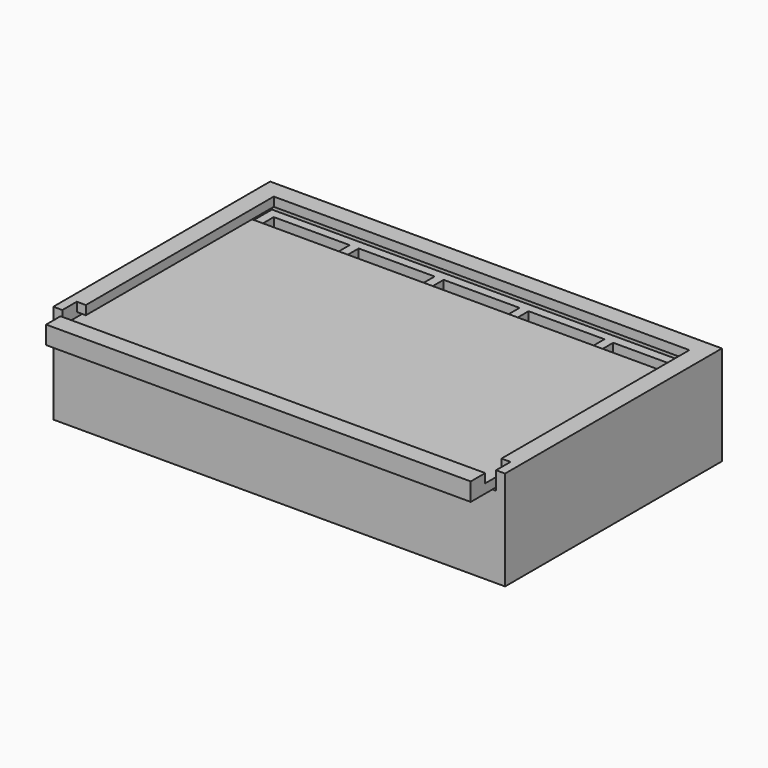
from build123d import *

# Parameters (mm, degrees)
F0_W      = 50
F0_H      = 30
F0_W_2    = 8.4
F0_H_2    = 8
F1_DEPTH  = 8
F3_DEPTH  = 1
F5_DEPTH  = 1
F6_W      = 50
F6_H      = 30
F7_DEPTH  = 1
F9_W      = 45
F9_H      = 25
F10_DEPTH = 1.5
F8_W      = 47
F8_H      = 28
F11_DEPTH = 1
F12_W     = 47
F12_H     = 2
F13_DEPTH = 1


with BuildPart() as f1:
    # F0 (on Top) → F1 (new body)
    with BuildSketch(Plane.XY):
        Rectangle(F0_W, F0_H)
        with Locations((-18.8, -9)):
            Rectangle(F0_W_2, F0_H_2, mode=Mode.SUBTRACT)
        with Locations((-9.4, -9)):
            Rectangle(F0_W_2, F0_H_2, mode=Mode.SUBTRACT)
        with Locations((0, -9)):
            Rectangle(F0_W_2, F0_H_2, mode=Mode.SUBTRACT)
        with Locations((9.4, -9)):
            Rectangle(F0_W_2, F0_H_2, mode=Mode.SUBTRACT)
        with Locations((18.8, -9.04)):
            Rectangle(F0_W_2, F0_H_2, mode=Mode.SUBTRACT)
        with Locations((18.8, -0.04)):
            Rectangle(F0_W_2, F0_H_2, mode=Mode.SUBTRACT)
        with Locations((-18.8, 0)):
            Rectangle(F0_W_2, F0_H_2, mode=Mode.SUBTRACT)
        with Locations((-9.4, 0)):
            Rectangle(F0_W_2, F0_H_2, mode=Mode.SUBTRACT)
        with Locations((-18.8, 9)):
            Rectangle(F0_W_2, F0_H_2, mode=Mode.SUBTRACT)
        with Locations((-9.4, 9)):
            Rectangle(F0_W_2, F0_H_2, mode=Mode.SUBTRACT)
        Rectangle(F0_W_2, F0_H_2, mode=Mode.SUBTRACT)
        with Locations((9.4, 0)):
            Rectangle(F0_W_2, F0_H_2, mode=Mode.SUBTRACT)
        with Locations((0, 9)):
            Rectangle(F0_W_2, F0_H_2, mode=Mode.SUBTRACT)
        with Locations((9.4, 9)):
            Rectangle(F0_W_2, F0_H_2, mode=Mode.SUBTRACT)
        with Locations((18.8, 8.96)):
            Rectangle(F0_W_2, F0_H_2, mode=Mode.SUBTRACT)
    extrude(amount=F1_DEPTH)

    # F2 (on face) → F3 (join)
    with BuildSketch(Plane.XY.offset(8)):
        Polygon((-25, -15), (-24, -15), (-24, 14), (24, 14), (24, -15), (25, -15), (25, 15), (-25, 15), align=None)
    extrude(amount=F3_DEPTH)

    # F4 (on face) → F5 (join)
    with BuildSketch(Plane.XY.offset(9)):
        Polygon((-25, 15), (-25, -15), (-24, -15), (-24, -13), (-22.998554, -13), (-23, 13), (23, 13), (23, -13), (24, -13), (24, -15), (25, -15), (25, 15), align=None)
    extrude(amount=F5_DEPTH)

    # F6 (on face) → F7 (join)
    with BuildSketch(Plane(origin=(0, 0, 0), x_dir=(1, 0, 0), z_dir=(0, 0, -1))):
        Rectangle(F6_W, F6_H)
    extrude(amount=F7_DEPTH)

    # F9 (on face) → F10 (join)
    with BuildSketch(Plane(origin=(0, 0, -1), x_dir=(1, 0, 0), z_dir=(0, 0, -1))):
        Rectangle(F9_W, F9_H)
    extrude(amount=F10_DEPTH)


with BuildPart() as f11:
    # F8 (on face) → F11 (new body)
    with BuildSketch(Plane.XY.offset(8)):
        with Locations((0.100398, -4)):
            Rectangle(F8_W, F8_H)
    extrude(amount=F11_DEPTH)

    # F12 (on face) → F13 (join)
    with BuildSketch(Plane.XY.offset(9)):
        with Locations((0.100398, -17)):
            Rectangle(F12_W, F12_H)
    extrude(amount=F13_DEPTH)


solid = Compound([f1.part, f11.part])
